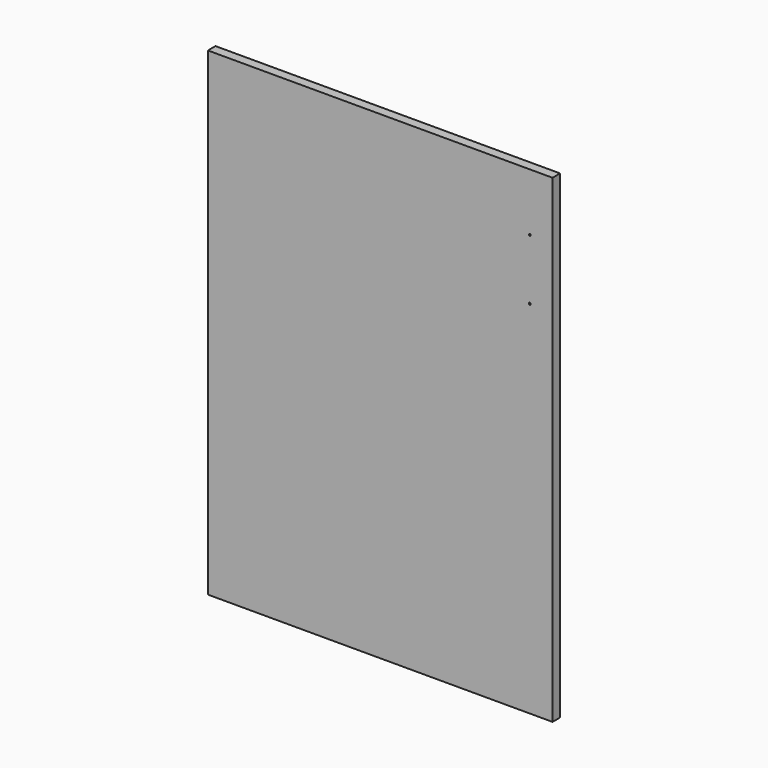
from build123d import *

# Parameters (mm, degrees)
F0_W     = 577.85
F0_H     = 803.275
F1_DEPTH = 15.875
F2_R     = 1.5875
F3_DEPTH = 15.876


with BuildPart() as f1:
    # F0 (on Front) → F1 (new body)
    with BuildSketch(Plane.XZ):
        with Locations((288.925, 401.6375)):
            Rectangle(F0_W, F0_H)
    extrude(amount=-F1_DEPTH)

    # F2 (on face) → F3 (cut, through all)
    with BuildSketch(Plane.XZ):
        with Locations((539.74998, 706.43749)):
            Circle(F2_R)
        with Locations((539.74998, 604.837499)):
            Circle(F2_R)
    extrude(amount=-F3_DEPTH, mode=Mode.SUBTRACT)


solid = f1.part
